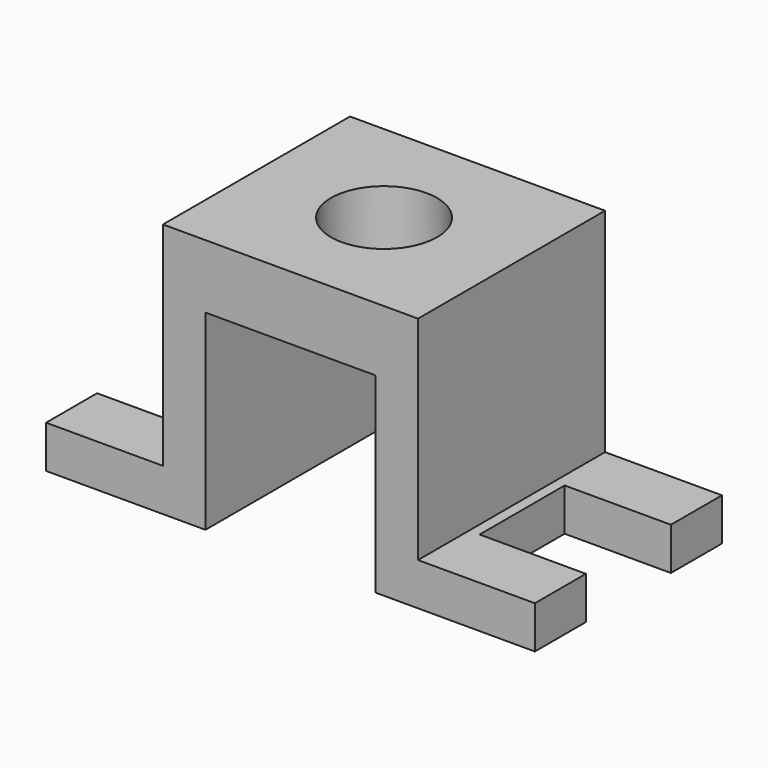
from build123d import *

# Parameters (mm, degrees)
F0_W          = 46
F0_H          = 24
F1_DEPTH      = 11
F1_DEPTH_BACK = 11
F2_W          = 16.6977588087
F2_H          = 22
F2_W_2        = 16
F2_H_2        = 27.9069770836
F3_DEPTH      = 25
F3_DEPTH_BACK = 25
F4_W          = 10
F4_H          = 10
F4_W_2        = 13.8300365831
F4_W_3        = 3.8300365831
F5_DEPTH      = 25
F6_R          = 5
F7_DEPTH      = 10


with BuildPart() as f1:
    # F0 (on Front) → F1 (new body, two sides)
    with BuildSketch(Plane.XZ) as f1_sk:
        Rectangle(F0_W, F0_H)
    extrude(amount=F1_DEPTH)
    extrude(f1_sk.sketch, amount=-F1_DEPTH_BACK)

    # F2 (on Front) → F3 (cut, two sides)
    with BuildSketch(Plane.XZ) as f3_sk:
        with Locations((-20.3488794044, 3)):
            Rectangle(F2_W, F2_H)
        with Locations((20.3488794044, 3)):
            Rectangle(F2_W, F2_H)
        with Locations((0, -7.9534885418)):
            Rectangle(F2_W_2, F2_H_2)
    extrude(amount=-F3_DEPTH, mode=Mode.SUBTRACT)
    extrude(f3_sk.sketch, amount=F3_DEPTH_BACK, mode=Mode.SUBTRACT)

    # F4 (on face) → F5 (cut)
    with BuildSketch(Plane.XY.offset(-8)):
        with Locations((-18, 0)):
            Rectangle(F4_W, F4_H)
        with Locations((19.9150182915, 0)):
            Rectangle(F4_W_2, F4_H)
        with Locations((-24.9150182915, 0)):
            Rectangle(F4_W_3, F4_H)
    extrude(amount=-F5_DEPTH, mode=Mode.SUBTRACT)

    # F6 (on face) → F7 (cut)
    with BuildSketch(Plane.XY.offset(12)):
        Circle(F6_R)
    extrude(amount=-F7_DEPTH, mode=Mode.SUBTRACT)


solid = f1.part
